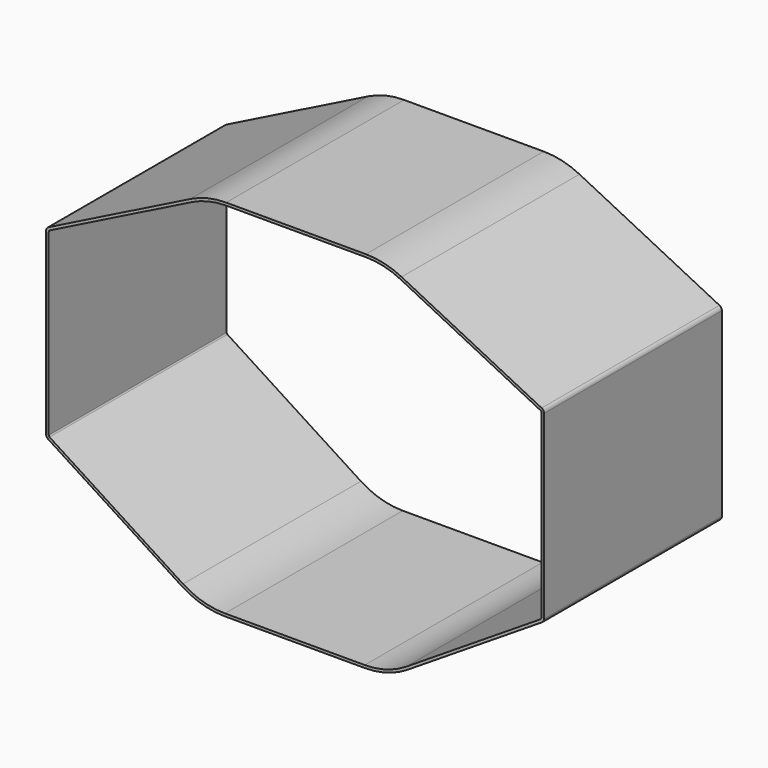
from build123d import *

# Parameters (mm, degrees)
F1_DEPTH = 12.5


with BuildPart() as f1:
    # F0 (on Front) → F1 (new body, symmetric)
    with BuildSketch(Plane.XZ):
        with BuildLine():
            ThreePointArc((-12.775239, 2.986369), (-10.443709, 1.920714), (-7.906317, 1.555622))
            Line((-7.906317, 1.555622), (7.817851, 1.555622))
            ThreePointArc((7.817851, 1.555622), (10.332984, 1.914204), (12.647699, 2.961377))
            Line((12.647699, 2.961377), (27.744712, 12.562894))
            ThreePointArc((27.744712, 12.562894), (27.914658, 12.744133), (27.976387, 12.984796))
            Line((27.976387, 12.984796), (27.976387, 33.317433))
            ThreePointArc((27.976387, 33.317433), (27.901601, 33.580479), (27.699614, 33.764836))
            Line((27.699614, 33.764836), (11.960489, 41.6177))
            ThreePointArc((11.960489, 41.6177), (10.006461, 42.324558), (7.942404, 42.56444))
            Line((7.942404, 42.56444), (-7.7593, 42.56444))
            ThreePointArc((-7.7593, 42.56444), (-9.829371, 42.323139), (-11.78844, 41.612175))
            Line((-11.78844, 41.612175), (-27.736375, 33.627757))
            ThreePointArc((-27.736375, 33.627757), (-27.937928, 33.443415), (-28.012534, 33.180661))
            Line((-28.012534, 33.180661), (-28.012534, 13.060643))
            ThreePointArc((-28.012534, 13.060643), (-27.951423, 12.82111), (-27.783029, 12.640129))
            Line((-27.783029, 12.640129), (-12.775239, 2.986369))
        make_face()
        with BuildLine():
            Line((-12.612941, 3.238677), (-27.620732, 12.892438))
            ThreePointArc((-27.620732, 12.892438), (-27.688089, 12.96483), (-27.712534, 13.060643))
            Line((-27.712534, 13.060643), (-27.712534, 33.180661))
            ThreePointArc((-27.712534, 33.180661), (-27.682691, 33.285763), (-27.60207, 33.3595))
            Line((-27.60207, 33.3595), (-11.654136, 41.343917))
            ThreePointArc((-11.654136, 41.343917), (-9.760369, 42.031183), (-7.7593, 42.26444))
            Line((-7.7593, 42.26444), (7.942404, 42.26444))
            ThreePointArc((7.942404, 42.26444), (9.937659, 42.032554), (11.826553, 41.349258))
            Line((11.826553, 41.349258), (27.565678, 33.496394))
            ThreePointArc((27.565678, 33.496394), (27.646473, 33.422652), (27.676387, 33.317433))
            Line((27.676387, 33.317433), (27.676387, 12.984796))
            ThreePointArc((27.676387, 12.984796), (27.651695, 12.888531), (27.583717, 12.816035))
            Line((27.583717, 12.816035), (12.486704, 3.214518))
            ThreePointArc((12.486704, 3.214518), (10.249146, 2.202252), (7.817851, 1.855622))
            Line((7.817851, 1.855622), (-7.906317, 1.855622))
            ThreePointArc((-7.906317, 1.855622), (-10.359129, 2.208544), (-12.612941, 3.238677))
        make_face(mode=Mode.SUBTRACT)
    extrude(amount=F1_DEPTH, both=True)


solid = f1.part
